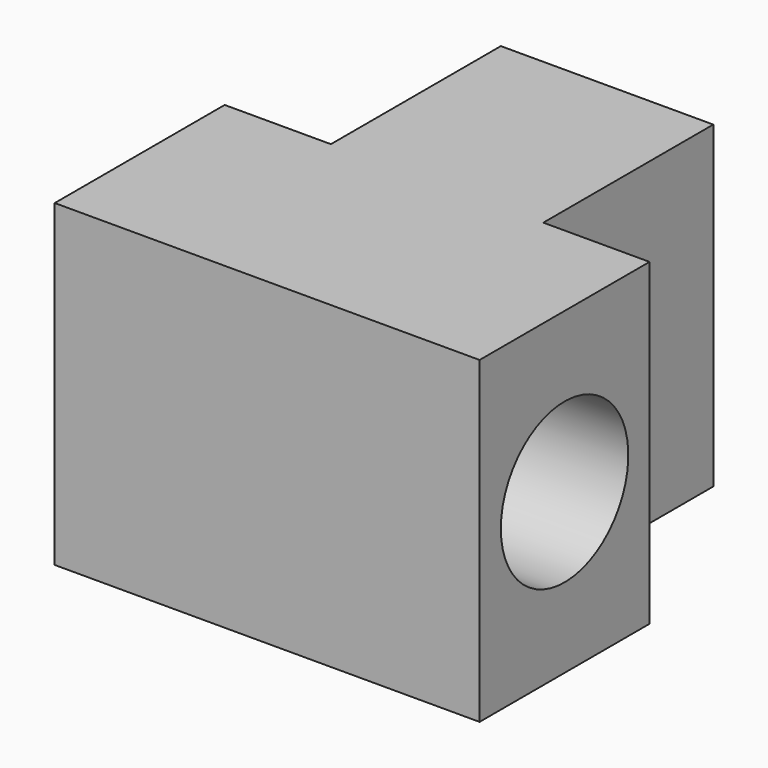
from build123d import *

# Parameters (mm, degrees)
F1_DEPTH = 38.1
F2_R     = 19.05
F3_DEPTH = 101.601


with BuildPart() as f1:
    # F0 (on Top) → F1 (new body, symmetric)
    with BuildSketch(Plane.XY):
        Polygon((-50.8, -25.4), (50.8, -25.4), (50.8, 25.4), (25.4, 25.4), (0, 25.4), (-25.4, 25.4), (-50.8, 25.4), align=None)
        Polygon((0, 25.4), (25.4, 25.4), (25.4, 76.2), (-25.4, 76.2), (-25.4, 25.4), align=None)
    extrude(amount=F1_DEPTH, both=True)

    # F2 (on face) → F3 (cut, through all)
    with BuildSketch(Plane(origin=(-50.8, 0, 0), x_dir=(0, -1, 0), z_dir=(-1, 0, 0))):
        Circle(F2_R)
    extrude(amount=-F3_DEPTH, mode=Mode.SUBTRACT)


solid = f1.part
